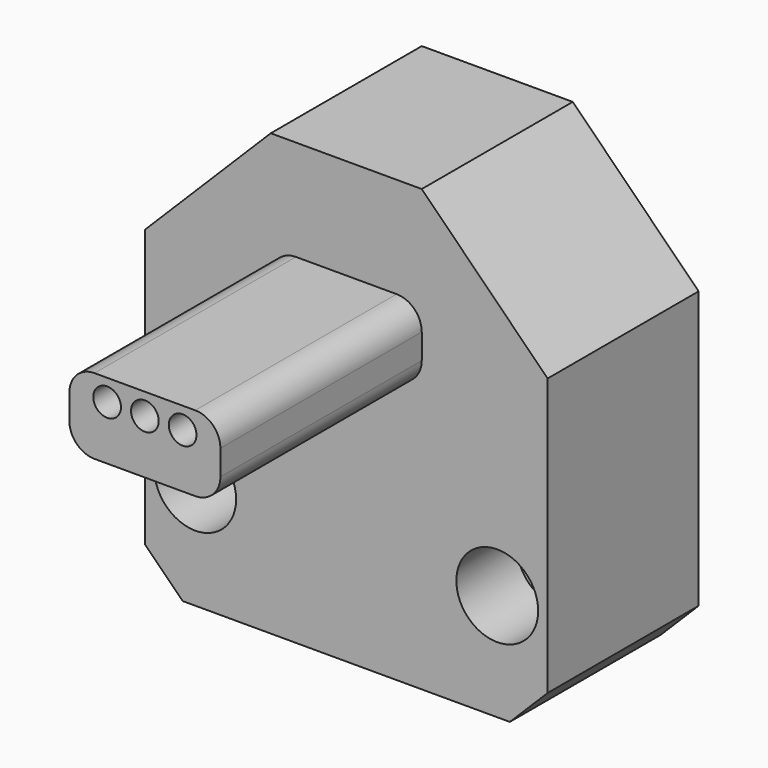
from build123d import *

# Parameters (mm, degrees)
F1_DEPTH        = 15
F2_W            = 12
F2_H            = 6
F3_DEPTH        = 20
F4_W            = 18
F4_H            = 13
F5_DEPTH        = 13
F6_R            = 3
F7_D            = 3.3
F7_CBORE_D      = 6.5
F7_CBORE_DEPTH  = 6
F9_R            = 2
F10_D           = 1.76
F10_CBORE_D     = 2.2
F10_CBORE_DEPTH = 13


with BuildPart() as f1:
    # F0 (on Front) → F1 (new body)
    with BuildSketch(Plane.XZ):
        Polygon((22, 0), (10, 0), (0, -10), (0, -32), (3, -35), (29, -35), (32, -32), (32, -10), align=None)
    extrude(amount=F1_DEPTH)

    # F2 (on face) → F3 (join)
    with BuildSketch(Plane.XZ.offset(15)):
        with Locations((16, -11)):
            Rectangle(F2_W, F2_H)
    extrude(amount=F3_DEPTH)

    # F4 (on face) → F5 (cut)
    with BuildSketch(Plane(origin=(0, 0, 0), x_dir=(-1, 0, 0), z_dir=(0, 1, 0))):
        with Locations((-16, -11.5)):
            Rectangle(F4_W, F4_H)
    extrude(amount=-F5_DEPTH, mode=Mode.SUBTRACT)

    # F6
    f6_edges = [f1.edges().sort_by_distance(p)[0] for p in [
        (25, -6.5, -5),
        (7, -6.5, -5),
        (25, -6.5, -18),
        (7, -6.5, -18),
    ]]
    fillet(f6_edges, radius=F6_R)

    # F7 (through all)
    with Locations(Plane.XZ.offset(15)):
        with Locations((4, -26.5), (28, -26.5)):
            CounterBoreHole(F7_D / 2, F7_CBORE_D / 2, F7_CBORE_DEPTH)

    # F9
    f9_edges = [f1.edges().sort_by_distance(p)[0] for p in [
        (22, -25, -8),
        (22, -25, -14),
        (10, -25, -8),
        (10, -25, -14),
    ]]
    fillet(f9_edges, radius=F9_R)

    # F10 (through all)
    with Locations(Plane.XZ.offset(35)):
        with Locations((19, -9.7), (16, -9.7), (13, -9.7)):
            CounterBoreHole(F10_D / 2, F10_CBORE_D / 2, F10_CBORE_DEPTH)


solid = f1.part
